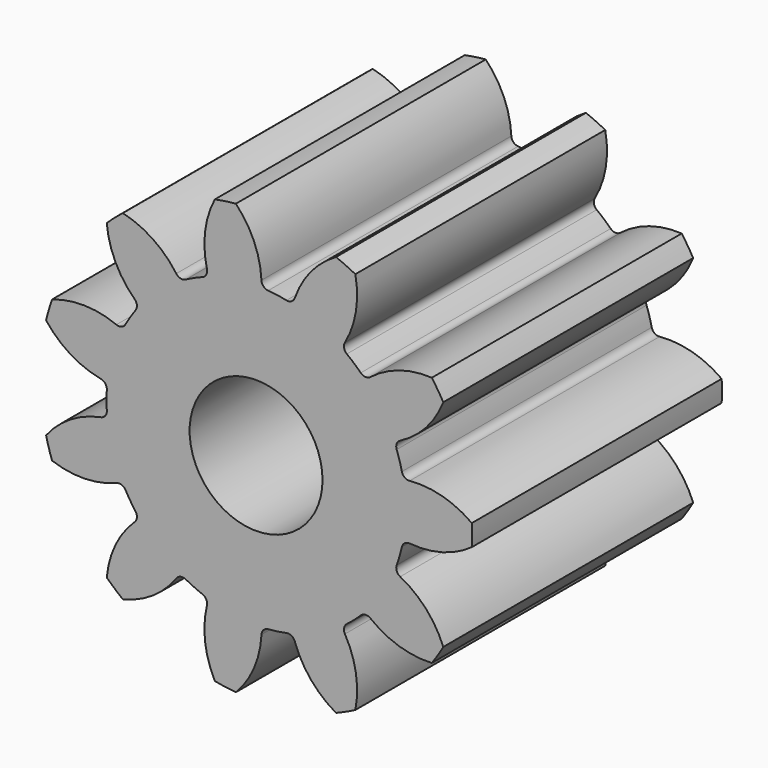
from build123d import *

# Parameters (mm, degrees)
F1_DEPTH = 4.7
F2_R     = 1
F3_DEPTH = 4.701


with BuildPart() as f1:
    # F0 (on Front) → F1 (new body)
    with BuildSketch(Plane.XZ):
        with BuildLine():
            ThreePointArc((0.081282, 2.346874), (-0.030407, 2.82636), (-0.303843, 3.235766))
            ThreePointArc((-0.303843, 3.235766), (-0.462523, 3.21692), (-0.620085, 3.190297))
            ThreePointArc((-0.620085, 3.190297), (-0.767102, 2.720439), (-0.73918, 2.228909))
            ThreePointArc((-0.73918, 2.228909), (-0.74873, 2.151955), (-0.806675, 2.100423))
            ThreePointArc((-0.806675, 2.100423), (-0.934684, 2.046672), (-1.059134, 1.985128))
            ThreePointArc((-1.059134, 1.985128), (-1.10292, 1.96114), (-1.146162, 1.936185))
            ThreePointArc((-1.146162, 1.936185), (-1.473437, 1.700437), (-1.753362, 1.410044))
            ThreePointArc((-1.753362, 1.410044), (-1.784216, 1.370793), (-1.814192, 1.330867))
            ThreePointArc((-1.814192, 1.330867), (-1.89282, 1.216442), (-1.964242, 1.097385))
            ThreePointArc((-1.964242, 1.097385), (-1.988107, 1.053532), (-2.010994, 1.00916))
            ThreePointArc((-2.010994, 1.00916), (-2.158859, 0.633898), (-2.237349, 0.238265))
            ThreePointArc((-2.237349, 0.238265), (-2.242085, 0.188564), (-2.245717, 0.13877))
            ThreePointArc((-2.245717, 0.13877), (-2.25, 0), (-2.245717, -0.13877))
            ThreePointArc((-2.245717, -0.13877), (-2.242085, -0.188564), (-2.237349, -0.238265))
            ThreePointArc((-2.237349, -0.238265), (-2.158859, -0.633898), (-2.010994, -1.00916))
            ThreePointArc((-2.010994, -1.00916), (-1.988107, -1.053532), (-1.964242, -1.097385))
            ThreePointArc((-1.964242, -1.097385), (-1.89282, -1.216442), (-1.814192, -1.330867))
            ThreePointArc((-1.814192, -1.330867), (-1.784216, -1.370793), (-1.753362, -1.410044))
            ThreePointArc((-1.753362, -1.410044), (-1.473437, -1.700437), (-1.146162, -1.936185))
            ThreePointArc((-1.146162, -1.936185), (-1.10292, -1.96114), (-1.059134, -1.985128))
            ThreePointArc((-1.059134, -1.985128), (-0.934684, -2.046672), (-0.806675, -2.100423))
            ThreePointArc((-0.806675, -2.100423), (-0.759872, -2.117804), (-0.712694, -2.134143))
            ThreePointArc((-0.712694, -2.134143), (-0.320208, -2.227098), (0.082568, -2.248485))
            ThreePointArc((0.082568, -2.248485), (0.132437, -2.246099), (0.182241, -2.242607))
            ThreePointArc((0.182241, -2.242607), (0.320208, -2.227098), (0.456956, -2.203109))
            ThreePointArc((0.456956, -2.203109), (0.505727, -2.192428), (0.554248, -2.180667))
            ThreePointArc((0.554248, -2.180667), (0.934684, -2.046672), (1.285083, -1.846906))
            ThreePointArc((1.285083, -1.846906), (1.325746, -1.817938), (1.365756, -1.788074))
            ThreePointArc((1.365756, -1.788074), (1.473437, -1.700437), (1.575507, -1.606324))
            ThreePointArc((1.575507, -1.606324), (1.610761, -1.570971), (1.645221, -1.534845))
            ThreePointArc((1.645221, -1.534845), (1.89282, -1.216442), (2.079593, -0.858948))
            ThreePointArc((2.079593, -0.858948), (2.09814, -0.812594), (2.115653, -0.76584))
            ThreePointArc((2.115653, -0.76584), (2.158859, -0.633898), (2.193845, -0.499542))
            ThreePointArc((2.193845, -0.499542), (2.204389, -0.450742), (2.213848, -0.40172))
            ThreePointArc((2.213848, -0.40172), (2.25, 0), (2.213848, 0.40172))
            ThreePointArc((2.213848, 0.40172), (2.204389, 0.450742), (2.193845, 0.499542))
            ThreePointArc((2.193845, 0.499542), (2.158859, 0.633898), (2.115653, 0.76584))
            ThreePointArc((2.115653, 0.76584), (2.09814, 0.812594), (2.079593, 0.858948))
            ThreePointArc((2.079593, 0.858948), (1.89282, 1.216442), (1.645221, 1.534845))
            ThreePointArc((1.645221, 1.534845), (1.610761, 1.570971), (1.575507, 1.606324))
            ThreePointArc((1.575507, 1.606324), (1.473437, 1.700437), (1.365756, 1.788074))
            ThreePointArc((1.365756, 1.788074), (1.325746, 1.817938), (1.285083, 1.846906))
            ThreePointArc((1.285083, 1.846906), (0.934684, 2.046672), (0.554248, 2.180667))
            ThreePointArc((0.554248, 2.180667), (0.505727, 2.192428), (0.456956, 2.203109))
            ThreePointArc((0.456956, 2.203109), (0.320208, 2.227098), (0.182241, 2.242607))
            ThreePointArc((0.182241, 2.242607), (0.112126, 2.275728), (0.081282, 2.346874))
        make_face()
        with BuildLine():
            ThreePointArc((0.583201, 2.274709), (0.533563, 2.215134), (0.456956, 2.203109))
            ThreePointArc((0.456956, 2.203109), (0.505727, 2.192428), (0.554248, 2.180667))
            ThreePointArc((0.554248, 2.180667), (0.567883, 2.227947), (0.583201, 2.274709))
        make_face()
        with BuildLine():
            ThreePointArc((0.583201, 2.274709), (0.567883, 2.227947), (0.554248, 2.180667))
            ThreePointArc((0.554248, 2.180667), (0.934684, 2.046672), (1.285083, 1.846906))
            ThreePointArc((1.285083, 1.846906), (1.311886, 1.888173), (1.337195, 1.930372))
            ThreePointArc((1.337195, 1.930372), (1.502466, 2.394124), (1.493778, 2.886369))
            ThreePointArc((1.493778, 2.886369), (1.350099, 2.956304), (1.203156, 3.019092))
            ThreePointArc((1.203156, 3.019092), (0.825453, 2.703306), (0.583201, 2.274709))
        make_face()
        with BuildLine():
            ThreePointArc((-1.146162, 1.936185), (-1.10292, 1.96114), (-1.059134, 1.985128))
            ThreePointArc((-1.059134, 1.985128), (-1.136025, 1.975084), (-1.200437, 2.01826))
            ThreePointArc((-1.200437, 2.01826), (-1.172565, 1.977708), (-1.146162, 1.936185))
        make_face()
        with BuildLine():
            ThreePointArc((1.337195, 1.930372), (1.311886, 1.888173), (1.285083, 1.846906))
            ThreePointArc((1.285083, 1.846906), (1.325746, 1.817938), (1.365756, 1.788074))
            ThreePointArc((1.365756, 1.788074), (1.324677, 1.853844), (1.337195, 1.930372))
        make_face()
        with BuildLine():
            ThreePointArc((-1.753362, 1.410044), (-1.473437, 1.700437), (-1.146162, 1.936185))
            ThreePointArc((-1.146162, 1.936185), (-1.172565, 1.977708), (-1.200437, 2.01826))
            ThreePointArc((-1.200437, 2.01826), (-1.553625, 2.361246), (-2.004996, 2.557829))
            ThreePointArc((-2.004996, 2.557829), (-2.128297, 2.456186), (-2.246453, 2.348605))
            ThreePointArc((-2.246453, 2.348605), (-2.116108, 1.873852), (-1.826877, 1.475447))
            ThreePointArc((-1.826877, 1.475447), (-1.790705, 1.442087), (-1.753362, 1.410044))
        make_face()
        with BuildLine():
            ThreePointArc((-1.814192, 1.330867), (-1.784216, 1.370793), (-1.753362, 1.410044))
            ThreePointArc((-1.753362, 1.410044), (-1.790705, 1.442087), (-1.826877, 1.475447))
            ThreePointArc((-1.826877, 1.475447), (-1.793307, 1.405546), (-1.814192, 1.330867))
        make_face()
        with BuildLine():
            ThreePointArc((1.720421, 1.598304), (1.646454, 1.575024), (1.575507, 1.606324))
            ThreePointArc((1.575507, 1.606324), (1.610761, 1.570971), (1.645221, 1.534845))
            ThreePointArc((1.645221, 1.534845), (1.682253, 1.567247), (1.720421, 1.598304))
        make_face()
        with BuildLine():
            ThreePointArc((1.720421, 1.598304), (1.682253, 1.567247), (1.645221, 1.534845))
            ThreePointArc((1.645221, 1.534845), (1.89282, 1.216442), (2.079593, 0.858948))
            ThreePointArc((2.079593, 0.858948), (2.124452, 0.879173), (2.168557, 0.90099))
            ThreePointArc((2.168557, 0.90099), (2.558316, 1.201771), (2.817135, 1.620571))
            ThreePointArc((2.817135, 1.620571), (2.734074, 1.757083), (2.644404, 1.889346))
            ThreePointArc((2.644404, 1.889346), (2.155932, 1.827892), (1.720421, 1.598304))
        make_face()
        with BuildLine():
            ThreePointArc((-2.010994, 1.00916), (-1.988107, 1.053532), (-1.964242, 1.097385))
            ThreePointArc((-1.964242, 1.097385), (-2.023496, 1.047365), (-2.101026, 1.048863))
            ThreePointArc((-2.101026, 1.048863), (-2.055654, 1.029818), (-2.010994, 1.00916))
        make_face()
        with BuildLine():
            ThreePointArc((2.168557, 0.90099), (2.124452, 0.879173), (2.079593, 0.858948))
            ThreePointArc((2.079593, 0.858948), (2.09814, 0.812594), (2.115653, 0.76584))
            ThreePointArc((2.115653, 0.76584), (2.116653, 0.843378), (2.168557, 0.90099))
        make_face()
        with BuildLine():
            ThreePointArc((-2.237349, 0.238265), (-2.158859, 0.633898), (-2.010994, 1.00916))
            ThreePointArc((-2.010994, 1.00916), (-2.055654, 1.029818), (-2.101026, 1.048863))
            ThreePointArc((-2.101026, 1.048863), (-2.583579, 1.146453), (-3.069577, 1.0678))
            ThreePointArc((-3.069577, 1.0678), (-3.118352, 0.915631), (-3.159589, 0.761248))
            ThreePointArc((-3.159589, 0.761248), (-2.793264, 0.43233), (-2.334554, 0.25354))
            ThreePointArc((-2.334554, 0.25354), (-2.286088, 0.245033), (-2.237349, 0.238265))
        make_face()
        with BuildLine():
            ThreePointArc((-2.245717, 0.13877), (-2.242085, 0.188564), (-2.237349, 0.238265))
            ThreePointArc((-2.237349, 0.238265), (-2.286088, 0.245033), (-2.334554, 0.25354))
            ThreePointArc((-2.334554, 0.25354), (-2.268521, 0.212885), (-2.245717, 0.13877))
        make_face()
        with BuildLine():
            ThreePointArc((2.311418, 0.41445), (2.236607, 0.434854), (2.193845, 0.499542))
            ThreePointArc((2.193845, 0.499542), (2.204389, 0.450742), (2.213848, 0.40172))
            ThreePointArc((2.213848, 0.40172), (2.262519, 0.408958), (2.311418, 0.41445))
        make_face()
        with BuildLine():
            ThreePointArc((2.311418, 0.41445), (2.262519, 0.408958), (2.213848, 0.40172))
            ThreePointArc((2.213848, 0.40172), (2.25, 0), (2.213848, -0.40172))
            ThreePointArc((2.213848, -0.40172), (2.262519, -0.408958), (2.311418, -0.41445))
            ThreePointArc((2.311418, -0.41445), (2.801919, -0.372136), (3.246072, -0.159747))
            ThreePointArc((3.246072, -0.159747), (3.25, 0), (3.246072, 0.159747))
            ThreePointArc((3.246072, 0.159747), (2.801919, 0.372136), (2.311418, 0.41445))
        make_face()
        with BuildLine():
            ThreePointArc((-2.237349, -0.238265), (-2.242085, -0.188564), (-2.245717, -0.13877))
            ThreePointArc((-2.245717, -0.13877), (-2.268521, -0.212885), (-2.334554, -0.25354))
            ThreePointArc((-2.334554, -0.25354), (-2.286088, -0.245033), (-2.237349, -0.238265))
        make_face()
        with BuildLine():
            ThreePointArc((2.311418, -0.41445), (2.262519, -0.408958), (2.213848, -0.40172))
            ThreePointArc((2.213848, -0.40172), (2.204389, -0.450742), (2.193845, -0.499542))
            ThreePointArc((2.193845, -0.499542), (2.236607, -0.434854), (2.311418, -0.41445))
        make_face()
        with BuildLine():
            ThreePointArc((-2.010994, -1.00916), (-2.158859, -0.633898), (-2.237349, -0.238265))
            ThreePointArc((-2.237349, -0.238265), (-2.286088, -0.245033), (-2.334554, -0.25354))
            ThreePointArc((-2.334554, -0.25354), (-2.793264, -0.43233), (-3.159589, -0.761248))
            ThreePointArc((-3.159589, -0.761248), (-3.118352, -0.915631), (-3.069577, -1.0678))
            ThreePointArc((-3.069577, -1.0678), (-2.583579, -1.146453), (-2.101026, -1.048863))
            ThreePointArc((-2.101026, -1.048863), (-2.055654, -1.029818), (-2.010994, -1.00916))
        make_face()
        with BuildLine():
            ThreePointArc((-1.964242, -1.097385), (-1.988107, -1.053532), (-2.010994, -1.00916))
            ThreePointArc((-2.010994, -1.00916), (-2.055654, -1.029818), (-2.101026, -1.048863))
            ThreePointArc((-2.101026, -1.048863), (-2.023496, -1.047365), (-1.964242, -1.097385))
        make_face()
        with BuildLine():
            ThreePointArc((2.168557, -0.90099), (2.116653, -0.843378), (2.115653, -0.76584))
            ThreePointArc((2.115653, -0.76584), (2.09814, -0.812594), (2.079593, -0.858948))
            ThreePointArc((2.079593, -0.858948), (2.124452, -0.879173), (2.168557, -0.90099))
        make_face()
        with BuildLine():
            ThreePointArc((2.168557, -0.90099), (2.124452, -0.879173), (2.079593, -0.858948))
            ThreePointArc((2.079593, -0.858948), (1.89282, -1.216442), (1.645221, -1.534845))
            ThreePointArc((1.645221, -1.534845), (1.682253, -1.567247), (1.720421, -1.598304))
            ThreePointArc((1.720421, -1.598304), (2.155932, -1.827892), (2.644404, -1.889346))
            ThreePointArc((2.644404, -1.889346), (2.734074, -1.757083), (2.817135, -1.620571))
            ThreePointArc((2.817135, -1.620571), (2.558316, -1.201771), (2.168557, -0.90099))
        make_face()
        with BuildLine():
            ThreePointArc((-1.753362, -1.410044), (-1.784216, -1.370793), (-1.814192, -1.330867))
            ThreePointArc((-1.814192, -1.330867), (-1.793307, -1.405546), (-1.826877, -1.475447))
            ThreePointArc((-1.826877, -1.475447), (-1.790705, -1.442087), (-1.753362, -1.410044))
        make_face()
        with BuildLine():
            ThreePointArc((1.720421, -1.598304), (1.682253, -1.567247), (1.645221, -1.534845))
            ThreePointArc((1.645221, -1.534845), (1.610761, -1.570971), (1.575507, -1.606324))
            ThreePointArc((1.575507, -1.606324), (1.646454, -1.575024), (1.720421, -1.598304))
        make_face()
        with BuildLine():
            ThreePointArc((-1.146162, -1.936185), (-1.473437, -1.700437), (-1.753362, -1.410044))
            ThreePointArc((-1.753362, -1.410044), (-1.790705, -1.442087), (-1.826877, -1.475447))
            ThreePointArc((-1.826877, -1.475447), (-2.116108, -1.873852), (-2.246453, -2.348605))
            ThreePointArc((-2.246453, -2.348605), (-2.128297, -2.456186), (-2.004996, -2.557829))
            ThreePointArc((-2.004996, -2.557829), (-1.553625, -2.361246), (-1.200437, -2.01826))
            ThreePointArc((-1.200437, -2.01826), (-1.172565, -1.977708), (-1.146162, -1.936185))
        make_face()
        with BuildLine():
            ThreePointArc((-1.059134, -1.985128), (-1.10292, -1.96114), (-1.146162, -1.936185))
            ThreePointArc((-1.146162, -1.936185), (-1.172565, -1.977708), (-1.200437, -2.01826))
            ThreePointArc((-1.200437, -2.01826), (-1.136025, -1.975084), (-1.059134, -1.985128))
        make_face()
        with BuildLine():
            ThreePointArc((1.337195, -1.930372), (1.324677, -1.853844), (1.365756, -1.788074))
            ThreePointArc((1.365756, -1.788074), (1.325746, -1.817938), (1.285083, -1.846906))
            ThreePointArc((1.285083, -1.846906), (1.311886, -1.888173), (1.337195, -1.930372))
        make_face()
        with BuildLine():
            ThreePointArc((1.337195, -1.930372), (1.311886, -1.888173), (1.285083, -1.846906))
            ThreePointArc((1.285083, -1.846906), (0.934684, -2.046672), (0.554248, -2.180667))
            ThreePointArc((0.554248, -2.180667), (0.567883, -2.227947), (0.583201, -2.274709))
            ThreePointArc((0.583201, -2.274709), (0.825453, -2.703306), (1.203156, -3.019092))
            ThreePointArc((1.203156, -3.019092), (1.350099, -2.956304), (1.493778, -2.886369))
            ThreePointArc((1.493778, -2.886369), (1.502466, -2.394124), (1.337195, -1.930372))
        make_face()
        with BuildLine():
            ThreePointArc((-0.712694, -2.134143), (-0.759872, -2.117804), (-0.806675, -2.100423))
            ThreePointArc((-0.806675, -2.100423), (-0.74873, -2.151955), (-0.73918, -2.228909))
            ThreePointArc((-0.73918, -2.228909), (-0.726785, -2.181289), (-0.712694, -2.134143))
        make_face()
        with BuildLine():
            ThreePointArc((0.583201, -2.274709), (0.567883, -2.227947), (0.554248, -2.180667))
            ThreePointArc((0.554248, -2.180667), (0.505727, -2.192428), (0.456956, -2.203109))
            ThreePointArc((0.456956, -2.203109), (0.533563, -2.215134), (0.583201, -2.274709))
        make_face()
        with BuildLine():
            ThreePointArc((0.082568, -2.248485), (-0.320208, -2.227098), (-0.712694, -2.134143))
            ThreePointArc((-0.712694, -2.134143), (-0.726785, -2.181289), (-0.73918, -2.228909))
            ThreePointArc((-0.73918, -2.228909), (-0.767102, -2.720439), (-0.620085, -3.190297))
            ThreePointArc((-0.620085, -3.190297), (-0.462523, -3.21692), (-0.303843, -3.235766))
            ThreePointArc((-0.303843, -3.235766), (-0.030407, -2.82636), (0.081282, -2.346874))
            ThreePointArc((0.081282, -2.346874), (0.082805, -2.297691), (0.082568, -2.248485))
        make_face()
        with BuildLine():
            ThreePointArc((0.182241, -2.242607), (0.132437, -2.246099), (0.082568, -2.248485))
            ThreePointArc((0.082568, -2.248485), (0.082805, -2.297691), (0.081282, -2.346874))
            ThreePointArc((0.081282, -2.346874), (0.112126, -2.275728), (0.182241, -2.242607))
        make_face()
    extrude(amount=F1_DEPTH)

    # F2 (on face) → F3 (cut, through all)
    with BuildSketch(Plane.XZ.offset(4.7)):
        Circle(F2_R)
    extrude(amount=-F3_DEPTH, mode=Mode.SUBTRACT)


solid = f1.part
